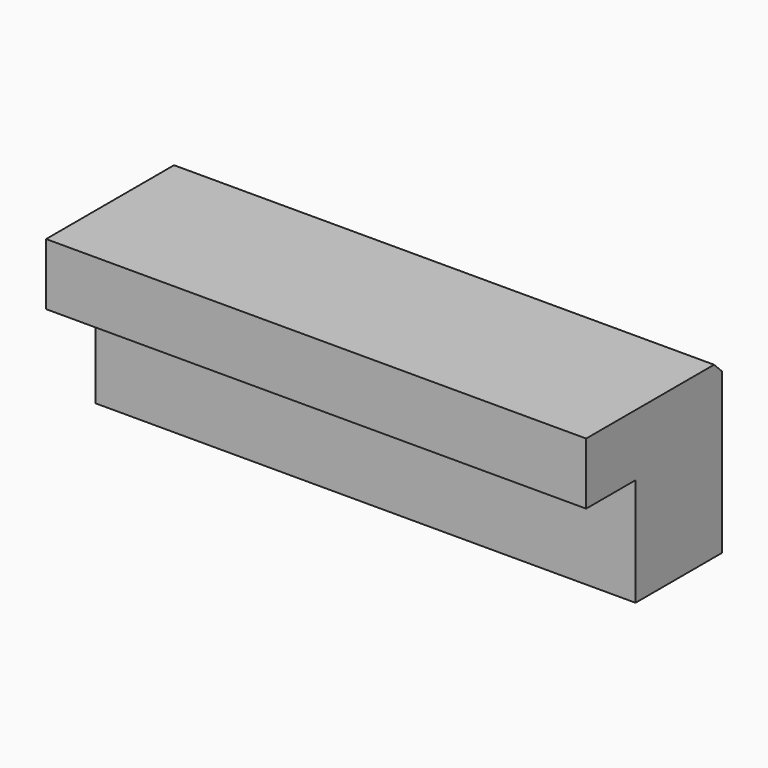
from build123d import *

# Parameters (mm, degrees)
F0_W     = 70.0024
F0_H     = 8.001
F1_DEPTH = 21.9964
F0_H_2   = 13.9954
F2_DEPTH = 13.9954
F3_SIZE  = 1.27


with BuildPart() as f1:
    # F0 (on Front) → F1 (new body)
    with BuildSketch(Plane.XZ):
        with Locations((0, 6.9977)):
            Rectangle(F0_W, F0_H)
    extrude(amount=F1_DEPTH)

    # F0 (on Front) → F2 (join)
    with BuildSketch(Plane.XZ):
        with Locations((0, -4.0005)):
            Rectangle(F0_W, F0_H_2)
    extrude(amount=F2_DEPTH)

    # F3
    f3_edges = [f1.edges().sort_by_distance(p)[0] for p in [
        (0, 0, 10.9982),
    ]]
    chamfer(f3_edges, length=F3_SIZE)


solid = f1.part
